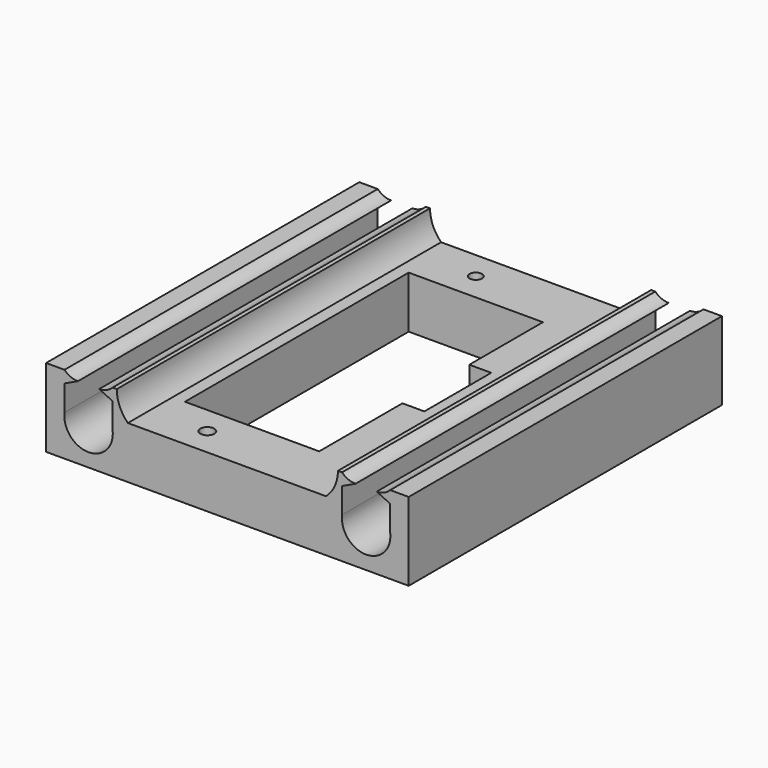
from build123d import *

# Parameters (mm, degrees)
F1_DEPTH = 88.9
F2_W     = 4.9823306459
F2_H     = 18.9774408937
F3_DEPTH = 127
F4_R     = 1.5875
F5_DEPTH = 127
F6_R     = 1.4161925478
F6_R_2   = 1.5875
F7_DEPTH = 76.2


with BuildPart() as f1:
    # F0 (on Front) → F1 (new body)
    with BuildSketch(Plane.XZ):
        with BuildLine():
            Line((-22.8439420462, 0), (0, 0))
            Line((0, 0), (0, 17.765391618))
            Line((0, 17.765391618), (-4.1987905279, 17.765391618))
            Line((-4.1987905279, 17.765391618), (-4.1987905279, 16.4750870317))
            Line((-4.1987905279, 16.4750870317), (-4.1987905279, 15.044271946))
            Line((-4.1987905279, 15.044271946), (-4.1987905279, 9.3032421722))
            ThreePointArc((-4.1987905279, 9.3032421722), (-9.6494707531, 3.097937748), (-15.1226427406, 9.2834131792))
            Line((-15.1226427406, 9.2834131792), (-15.1226427406, 15.044271946))
            Line((-15.1226427406, 15.044271946), (-15.1226427406, 16.4750870317))
            Line((-15.1226427406, 16.4750870317), (-15.1226427406, 17.765391618))
            Line((-15.1226427406, 17.765391618), (-16.0616673529, 17.765391618))
            Line((-16.0616673529, 17.765391618), (-16.0616673529, 11.8045024574))
            Line((-16.0616673529, 11.8045024574), (-18.7766868621, 11.8045024574))
            Line((-18.7766868621, 11.8045024574), (-63.7612715364, 11.8045024574))
            Line((-63.7612715364, 11.8045024574), (-66.2720091641, 11.8045024574))
            Line((-66.2720091641, 11.8045024574), (-66.2720091641, 17.765391618))
            Line((-66.2720091641, 17.765391618), (-67.2196410596, 17.765391618))
            Line((-67.2196410596, 17.765391618), (-67.2196410596, 16.4750870317))
            Line((-67.2196410596, 16.4750870317), (-67.2196410596, 15.044271946))
            Line((-67.2196410596, 15.044271946), (-67.2196410596, 9.2371329665))
            ThreePointArc((-67.2196410596, 9.2371329665), (-72.6834610105, 3.0635382866), (-78.1472809613, 9.2371329665))
            Line((-78.1472809613, 9.2371329665), (-78.1472809613, 15.044271946))
            Line((-78.1472809613, 15.044271946), (-78.1472809613, 16.4750870317))
            Line((-78.1472809613, 16.4750870317), (-78.1472809613, 17.765391618))
            Line((-78.1472809613, 17.765391618), (-82.3283270001, 17.765391618))
            Line((-82.3283270001, 17.765391618), (-82.3283270001, 0))
            Line((-82.3283270001, 0), (-22.8439420462, 0))
        make_face()
        with BuildLine():
            Line((-4.1987905279, 16.4750870317), (-4.1987905279, 17.765391618))
            ThreePointArc((-4.1987905279, 17.765391618), (-5.5930091509, 16.810932091), (-7.2489217855, 16.4750870317))
            Line((-7.2489217855, 16.4750870317), (-4.1987905279, 16.4750870317))
        make_face()
        Polygon((-4.1987905279, 15.044271946), (-4.1987905279, 16.4750870317), (-7.2489217855, 16.4750870317), align=None)
        with BuildLine():
            ThreePointArc((-75.1015543938, 16.4750870317), (-76.755438931, 16.8109674547), (-78.1472809613, 17.765391618))
            Line((-78.1472809613, 17.765391618), (-78.1472809613, 16.4750870317))
            Line((-78.1472809613, 16.4750870317), (-75.1015543938, 16.4750870317))
        make_face()
        Polygon((-75.1015543938, 16.4750870317), (-78.1472809613, 16.4750870317), (-78.1472809613, 15.044271946), align=None)
        Polygon((-15.1226427406, 16.4750870317), (-15.1226427406, 15.044271946), (-12.0709454641, 16.4750870317), align=None)
        with BuildLine():
            Line((-15.1226427406, 17.765391618), (-15.1226427406, 16.4750870317))
            Line((-15.1226427406, 16.4750870317), (-12.0709454641, 16.4750870317))
            ThreePointArc((-12.0709454641, 16.4750870317), (-13.7275792644, 16.8109195511), (-15.1226427406, 17.765391618))
        make_face()
        Polygon((-70.2685788274, 16.4750870317), (-67.2196410596, 15.044271946), (-67.2196410596, 16.4750870317), align=None)
        with BuildLine():
            Line((-16.0616673529, 11.8045024574), (-16.0616673529, 17.765391618))
            ThreePointArc((-16.0616673529, 17.765391618), (-16.7723874031, 14.4903522854), (-18.7766868621, 11.8045024574))
            Line((-18.7766868621, 11.8045024574), (-16.0616673529, 11.8045024574))
        make_face()
        with BuildLine():
            Line((-70.2685788274, 16.4750870317), (-67.2196410596, 16.4750870317))
            Line((-67.2196410596, 16.4750870317), (-67.2196410596, 17.765391618))
            ThreePointArc((-67.2196410596, 17.765391618), (-68.6132157677, 16.8109416595), (-70.2685788274, 16.4750870317))
        make_face()
        with BuildLine():
            Line((-66.2720091641, 11.8045024574), (-63.7612715364, 11.8045024574))
            ThreePointArc((-63.7612715364, 11.8045024574), (-65.6187109531, 14.5313537773), (-66.2720091641, 17.765391618))
            Line((-66.2720091641, 17.765391618), (-66.2720091641, 11.8045024574))
        make_face()
    extrude(amount=F1_DEPTH)

    # F2 (on Top) → F3 (cut)
    with BuildSketch(Plane.XY):
        Polygon((-30.48, -12.7), (-60.96, -12.7), (-60.96, -76.2), (-30.48, -76.2), (-30.48, -52.5795705616), (-30.48, -33.602129668), align=None)
        with Locations((-27.988834677, -43.0908501148)):
            Rectangle(F2_W, F2_H)
    extrude(amount=F3_DEPTH, mode=Mode.SUBTRACT)

    # F4 (on Top) → F5 (cut)
    with BuildSketch(Plane.XY):
        with Locations((-21.59, -25.4)):
            Circle(F4_R)
        with Locations((-21.59, -63.5)):
            Circle(F4_R)
    extrude(amount=F5_DEPTH, mode=Mode.SUBTRACT)

    # F6 (on Top) → F7 (cut)
    with BuildSketch(Plane.XY):
        with Locations((-50.8, -6.35)):
            Circle(F6_R)
        with Locations((-50.7999993861, -82.55)):
            Circle(F6_R_2)
    extrude(amount=F7_DEPTH, mode=Mode.SUBTRACT)


solid = f1.part
